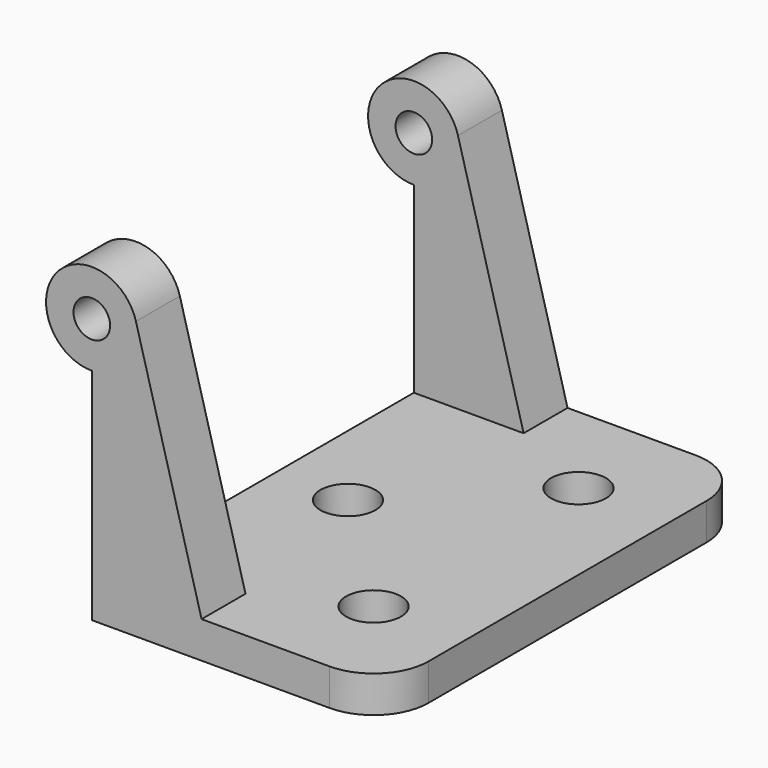
from build123d import *

# Parameters (mm, degrees)
SKETCH_R    = 1
PAD_DEPTH   = 12.5
BOX_W       = 19
BOX_H       = 19
BOX_DEPTH   = 19
SKETCH001_R = 1.5
HOLE_DEPTH  = 2.001
FILLET_R    = 3


with BuildPart() as part:
    # Sketch → Pad (new body, symmetric)
    with BuildSketch(Plane.XZ):
        with BuildLine():
            Line((0, 0), (-16, 0))
            Line((-16, 0), (-16, 12))
            ThreePointArc((-13.588072, 15.157725), (-17.986745, 16.017512), (-16, 12))
            Line((-13.588072, 15.157725), (-10, 2))
            Line((-10, 2), (0, 2))
            Line((0, 2), (0, 0))
        make_face()
        with Locations((-16, 14.5)):
            Circle(SKETCH_R, mode=Mode.SUBTRACT)
    extrude(amount=PAD_DEPTH, both=True)

    # Box → Box (cut)
    with BuildSketch(Plane(origin=(-7, 9.5, 2), x_dir=(-1, 0, 0), z_dir=(0, 0, 1))):
        with Locations((9.5, 9.5)):
            Rectangle(BOX_W, BOX_H)
    extrude(amount=BOX_DEPTH, mode=Mode.SUBTRACT)

    # Sketch001 (on Face14 of Box) → Hole (cut, through all)
    with BuildSketch(Plane(origin=(-7, 9.5, 2), x_dir=(-1, 0, 0), z_dir=(0, 0, 1))):
        with Locations((5, 9.5)):
            Circle(SKETCH001_R)
        with Locations((-2, 16.5)):
            Circle(SKETCH001_R)
        with Locations((-2, 2.5)):
            Circle(SKETCH001_R)
    extrude(amount=-HOLE_DEPTH, mode=Mode.SUBTRACT)

    # Fillet
    fillet_edges = [part.edges().sort_by_distance(p)[0] for p in [
        (0, 12.5, 1),
        (0, -12.5, 1),
    ]]
    fillet(fillet_edges, radius=FILLET_R)


solid = part.part
